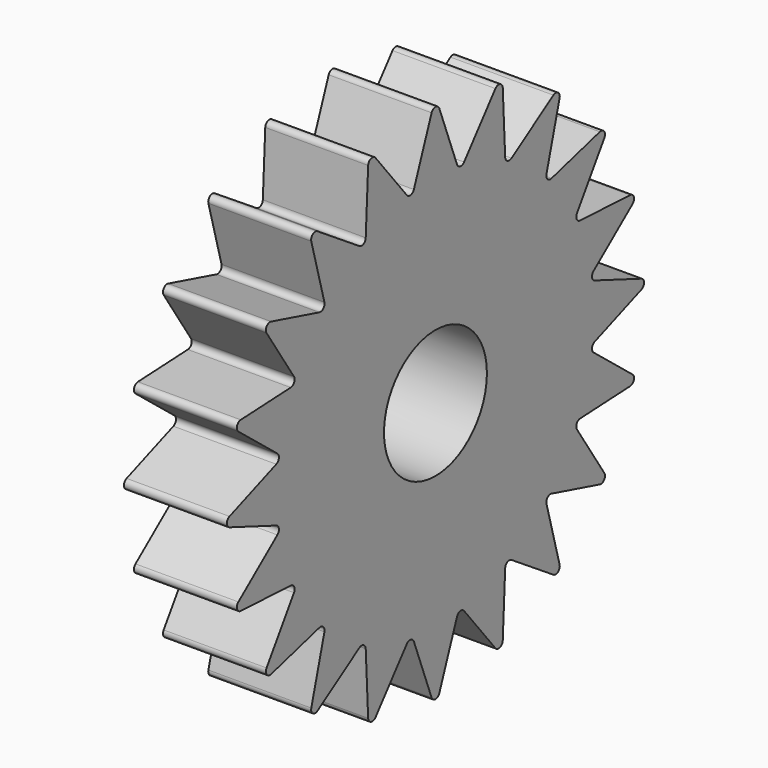
from build123d import *

# Parameters (mm, degrees)
F1_DEPTH = 4
F2_R     = 2.5
F3_DEPTH = 4.001


with BuildPart() as f1:
    # F0 (on Right) → F1 (new body)
    with BuildSketch(Plane.YZ):
        with BuildLine():
            ThreePointArc((0.186993, 10.007145), (0, 10.136198), (-0.186993, 10.007145))
            Line((-0.186993, 10.007145), (-1.049264, 7.734473))
            ThreePointArc((-1.049264, 7.734473), (-1.20497, 7.607883), (-1.392175, 7.680162))
            Line((-1.392175, 7.680162), (-2.914536, 9.575144))
            ThreePointArc((-2.914536, 9.575144), (-3.132257, 9.640097), (-3.270219, 9.459576))
            Line((-3.270219, 9.459576), (-3.387993, 7.031681))
            ThreePointArc((-3.387993, 7.031681), (-3.49696, 6.86317), (-3.697337, 6.874062))
            Line((-3.697337, 6.874062), (-5.730771, 8.205862))
            ThreePointArc((-5.730771, 8.205862), (-5.957908, 8.200356), (-6.033333, 7.986038))
            Line((-6.033333, 7.986038), (-5.395082, 5.640579))
            ThreePointArc((-5.395082, 5.640579), (-5.446643, 5.446643), (-5.640579, 5.395082))
            Line((-5.640579, 5.395082), (-7.986038, 6.033333))
            ThreePointArc((-7.986038, 6.033333), (-8.200356, 5.957908), (-8.205862, 5.730771))
            Line((-8.205862, 5.730771), (-6.874062, 3.697337))
            ThreePointArc((-6.874062, 3.697337), (-6.86317, 3.49696), (-7.031681, 3.387993))
            Line((-7.031681, 3.387993), (-9.459576, 3.270219))
            ThreePointArc((-9.459576, 3.270219), (-9.640097, 3.132257), (-9.575144, 2.914536))
            Line((-9.575144, 2.914536), (-7.680162, 1.392175))
            ThreePointArc((-7.680162, 1.392175), (-7.607883, 1.20497), (-7.734473, 1.049264))
            Line((-7.734473, 1.049264), (-10.007145, 0.186993))
            ThreePointArc((-10.007145, 0.186993), (-10.136198, 0), (-10.007145, -0.186993))
            Line((-10.007145, -0.186993), (-7.734473, -1.049264))
            ThreePointArc((-7.734473, -1.049264), (-7.607883, -1.20497), (-7.680162, -1.392175))
            Line((-7.680162, -1.392175), (-9.575144, -2.914536))
            ThreePointArc((-9.575144, -2.914536), (-9.640097, -3.132257), (-9.459576, -3.270219))
            Line((-9.459576, -3.270219), (-7.031681, -3.387993))
            ThreePointArc((-7.031681, -3.387993), (-6.86317, -3.49696), (-6.874062, -3.697337))
            Line((-6.874062, -3.697337), (-8.205862, -5.730771))
            ThreePointArc((-8.205862, -5.730771), (-8.200356, -5.957908), (-7.986038, -6.033333))
            Line((-7.986038, -6.033333), (-5.640579, -5.395082))
            ThreePointArc((-5.640579, -5.395082), (-5.446643, -5.446643), (-5.395082, -5.640579))
            Line((-5.395082, -5.640579), (-6.033333, -7.986038))
            ThreePointArc((-6.033333, -7.986038), (-5.957908, -8.200356), (-5.730771, -8.205862))
            Line((-5.730771, -8.205862), (-3.697337, -6.874062))
            ThreePointArc((-3.697337, -6.874062), (-3.49696, -6.86317), (-3.387993, -7.031681))
            Line((-3.387993, -7.031681), (-3.270219, -9.459576))
            ThreePointArc((-3.270219, -9.459576), (-3.132257, -9.640097), (-2.914536, -9.575144))
            Line((-2.914536, -9.575144), (-1.392175, -7.680162))
            ThreePointArc((-1.392175, -7.680162), (-1.20497, -7.607883), (-1.049264, -7.734473))
            Line((-1.049264, -7.734473), (-0.186993, -10.007145))
            ThreePointArc((-0.186993, -10.007145), (0, -10.136198), (0.186993, -10.007145))
            Line((0.186993, -10.007145), (1.049264, -7.734473))
            ThreePointArc((1.049264, -7.734473), (1.20497, -7.607883), (1.392175, -7.680162))
            Line((1.392175, -7.680162), (2.914536, -9.575144))
            ThreePointArc((2.914536, -9.575144), (3.132257, -9.640097), (3.270219, -9.459576))
            Line((3.270219, -9.459576), (3.387993, -7.031681))
            ThreePointArc((3.387993, -7.031681), (3.49696, -6.86317), (3.697337, -6.874062))
            Line((3.697337, -6.874062), (5.730771, -8.205862))
            ThreePointArc((5.730771, -8.205862), (5.957908, -8.200356), (6.033333, -7.986038))
            Line((6.033333, -7.986038), (5.395082, -5.640579))
            ThreePointArc((5.395082, -5.640579), (5.446643, -5.446643), (5.640579, -5.395082))
            Line((5.640579, -5.395082), (7.986038, -6.033333))
            ThreePointArc((7.986038, -6.033333), (8.200356, -5.957908), (8.205862, -5.730771))
            Line((8.205862, -5.730771), (6.874062, -3.697337))
            ThreePointArc((6.874062, -3.697337), (6.86317, -3.49696), (7.031681, -3.387993))
            Line((7.031681, -3.387993), (9.459576, -3.270219))
            ThreePointArc((9.459576, -3.270219), (9.640097, -3.132257), (9.575144, -2.914536))
            Line((9.575144, -2.914536), (7.680162, -1.392175))
            ThreePointArc((7.680162, -1.392175), (7.607883, -1.20497), (7.734473, -1.049264))
            Line((7.734473, -1.049264), (10.007145, -0.186993))
            ThreePointArc((10.007145, -0.186993), (10.136198, 0), (10.007145, 0.186993))
            Line((10.007145, 0.186993), (7.734473, 1.049264))
            ThreePointArc((7.734473, 1.049264), (7.607883, 1.20497), (7.680162, 1.392175))
            Line((7.680162, 1.392175), (9.575144, 2.914536))
            ThreePointArc((9.575144, 2.914536), (9.640097, 3.132257), (9.459576, 3.270219))
            Line((9.459576, 3.270219), (7.031681, 3.387993))
            ThreePointArc((7.031681, 3.387993), (6.86317, 3.49696), (6.874062, 3.697337))
            Line((6.874062, 3.697337), (8.205862, 5.730771))
            ThreePointArc((8.205862, 5.730771), (8.200356, 5.957908), (7.986038, 6.033333))
            Line((7.986038, 6.033333), (5.640579, 5.395082))
            ThreePointArc((5.640579, 5.395082), (5.446643, 5.446643), (5.395082, 5.640579))
            Line((5.395082, 5.640579), (6.033333, 7.986038))
            ThreePointArc((6.033333, 7.986038), (5.957908, 8.200356), (5.730771, 8.205862))
            Line((5.730771, 8.205862), (3.697337, 6.874062))
            ThreePointArc((3.697337, 6.874062), (3.49696, 6.86317), (3.387993, 7.031681))
            Line((3.387993, 7.031681), (3.270219, 9.459576))
            ThreePointArc((3.270219, 9.459576), (3.132257, 9.640097), (2.914536, 9.575144))
            Line((2.914536, 9.575144), (1.392175, 7.680162))
            ThreePointArc((1.392175, 7.680162), (1.20497, 7.607883), (1.049264, 7.734473))
            Line((1.049264, 7.734473), (0.186993, 10.007145))
        make_face()
    extrude(amount=F1_DEPTH)

    # F2 (on Right) → F3 (cut, through all)
    with BuildSketch(Plane.YZ):
        Circle(F2_R)
    extrude(amount=F3_DEPTH, mode=Mode.SUBTRACT)


solid = f1.part
